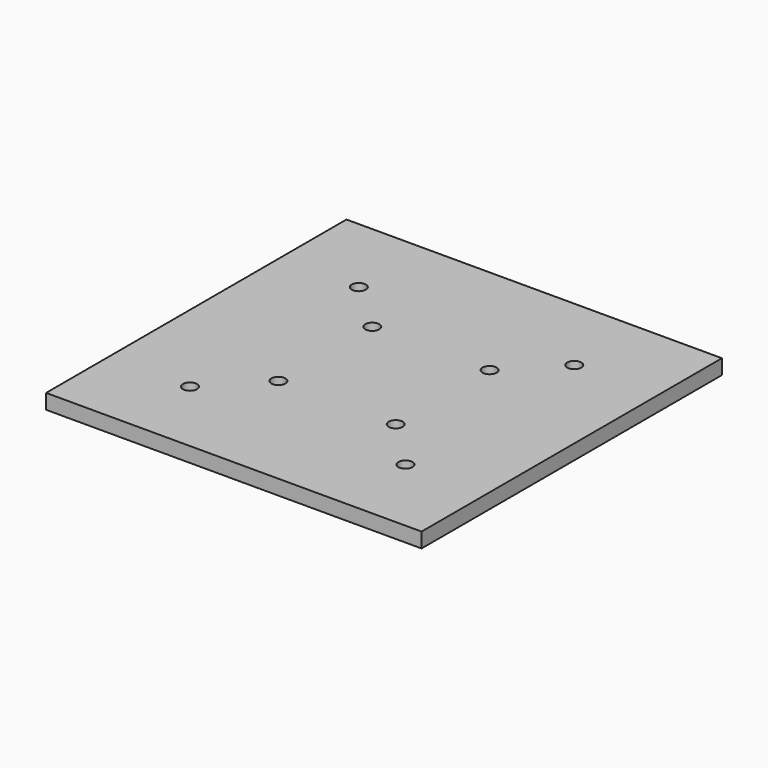
from build123d import *

# Parameters (mm, degrees)
F0_W     = 80
F0_H     = 80
F0_R     = 1.5
F1_DEPTH = 3.175
F2_R     = 1.5
F3_DEPTH = 25


with BuildPart() as f1:
    # F0 (on Top) → F1 (new body)
    with BuildSketch(Plane.XY):
        Rectangle(F0_W, F0_H)
        with Locations((-22.722, -23.282524)):
            Circle(F0_R, mode=Mode.SUBTRACT)
        with Locations((22.822, -22.822)):
            Circle(F0_R, mode=Mode.SUBTRACT)
        with Locations((-23.182524, 22.261476)):
            Circle(F0_R, mode=Mode.SUBTRACT)
        with Locations((22.361476, 22.722)):
            Circle(F0_R, mode=Mode.SUBTRACT)
    extrude(amount=F1_DEPTH)

    # F2 (on face) → F3 (cut)
    with BuildSketch(Plane.XY.offset(3.175)):
        with Locations((-12.5, 12.5)):
            Circle(F2_R)
        with Locations((12.5, 12.5)):
            Circle(F2_R)
        with Locations((12.5, -12.5)):
            Circle(F2_R)
        with Locations((-12.5, -12.5)):
            Circle(F2_R)
    extrude(amount=-F3_DEPTH, mode=Mode.SUBTRACT)


solid = f1.part
